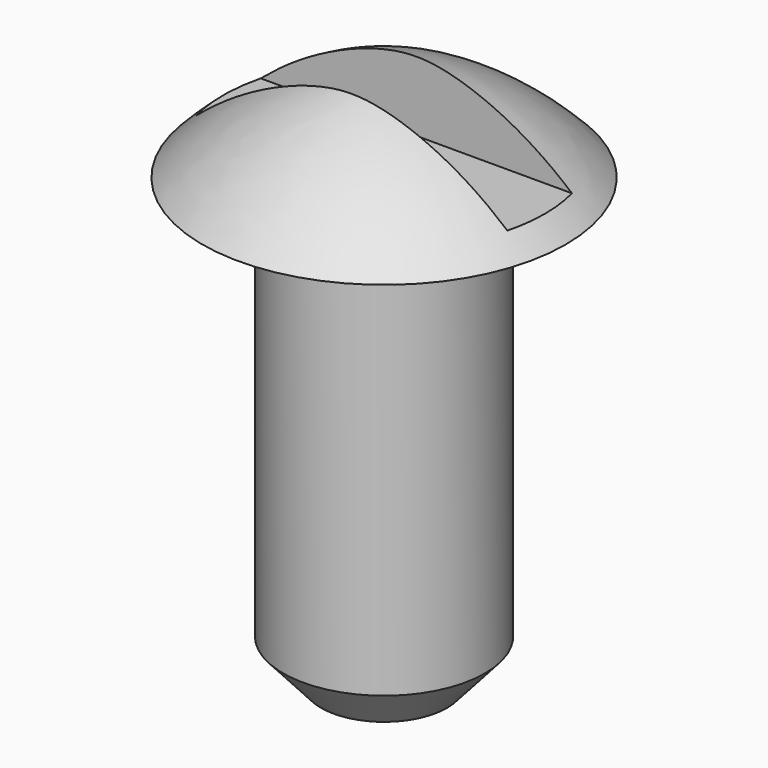
from build123d import *

# Parameters (mm, degrees)
F1_FACE_R = 3.175
F3_R      = 1.981598
F6_W      = 10.16
F6_H      = 2.54
F7_DEPTH  = 9.5758


with BuildPart() as f1:
    # F0 (on Front) → F1 (revolve)
    with BuildSketch(Plane.XZ):
        with BuildLine():
            Line((0, 15.875), (0, 0))
            Line((0, 0), (3.175, 0))
            Line((3.175, 0), (3.175, 12.7))
            Line((3.175, 12.7), (5.715, 12.7))
            ThreePointArc((5.715, 12.7), (3.098646, 14.721563), (0, 15.875))
        make_face()
    revolve(axis=Axis((0, 0, 7.9375), (0, 0, -1)))

    # F1_face (on face) → F4 section 0
    with BuildSketch(Plane(origin=(0, 0, 0), x_dir=(1, 0, 0), z_dir=(0, 0, -1))):
        Circle(F1_FACE_R)
    # F3 (on offset) → F4 section 1
    with BuildSketch(Plane(origin=(0, 0, -1.3462), x_dir=(1, 0, 0), z_dir=(0, 0, -1))):
        Circle(F3_R)
    loft()

    # F6 (on offset) → F7 (cut)
    with BuildSketch(Plane(origin=(0, 0, 13.335), x_dir=(1, 0, 0), z_dir=(0, 0, -1))):
        Rectangle(F6_W, F6_H)
    extrude(amount=-F7_DEPTH, mode=Mode.SUBTRACT)


solid = f1.part
